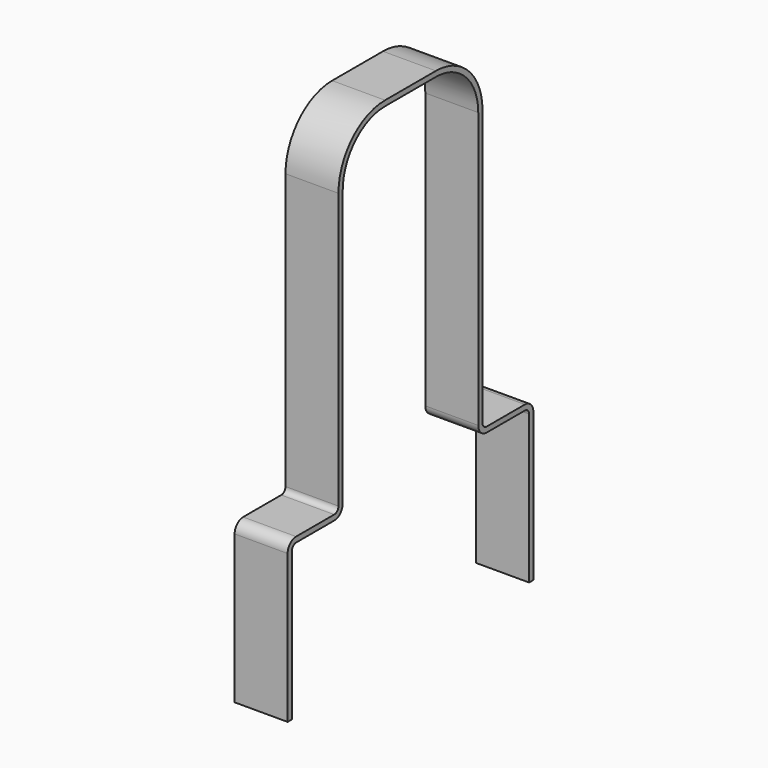
from build123d import *

# Parameters (mm, degrees)
F1_DEPTH = 50


with BuildPart() as f1:
    # F0 (on Right) → F1 (new body)
    with BuildSketch(Plane.YZ):
        with BuildLine():
            Line((-145, 140), (-145, 0))
            Line((-145, 0), (-140, 0))
            Line((-140, 0), (-140, 140))
            ThreePointArc((-140, 140), (-138.535534, 143.535534), (-135, 145))
            Line((-135, 145), (-90, 145))
            ThreePointArc((-90, 145), (-82.928932, 147.928932), (-80, 155))
            Line((-80, 155), (-80, 415))
            ThreePointArc((-80, 415), (-65.355339, 450.355339), (-30, 465))
            Line((-30, 465), (0, 465))
            Line((0, 465), (30, 465))
            ThreePointArc((30, 465), (65.355339, 450.355339), (80, 415))
            Line((80, 415), (80, 155))
            ThreePointArc((80, 155), (82.928932, 147.928932), (90, 145))
            Line((90, 145), (135, 145))
            ThreePointArc((135, 145), (138.535534, 143.535534), (140, 140))
            Line((140, 140), (140, 0))
            Line((140, 0), (145, 0))
            Line((145, 0), (145, 140))
            ThreePointArc((145, 140), (142.071068, 147.071068), (135, 150))
            Line((135, 150), (90, 150))
            ThreePointArc((90, 150), (86.464466, 151.464466), (85, 155))
            Line((85, 155), (85, 415))
            ThreePointArc((85, 415), (68.890873, 453.890873), (30, 470))
            Line((30, 470), (0, 470))
            Line((0, 470), (-30, 470))
            ThreePointArc((-30, 470), (-68.890873, 453.890873), (-85, 415))
            Line((-85, 415), (-85, 155))
            ThreePointArc((-85, 155), (-86.464466, 151.464466), (-90, 150))
            Line((-90, 150), (-135, 150))
            ThreePointArc((-135, 150), (-142.071068, 147.071068), (-145, 140))
        make_face()
    extrude(amount=F1_DEPTH)


solid = f1.part
